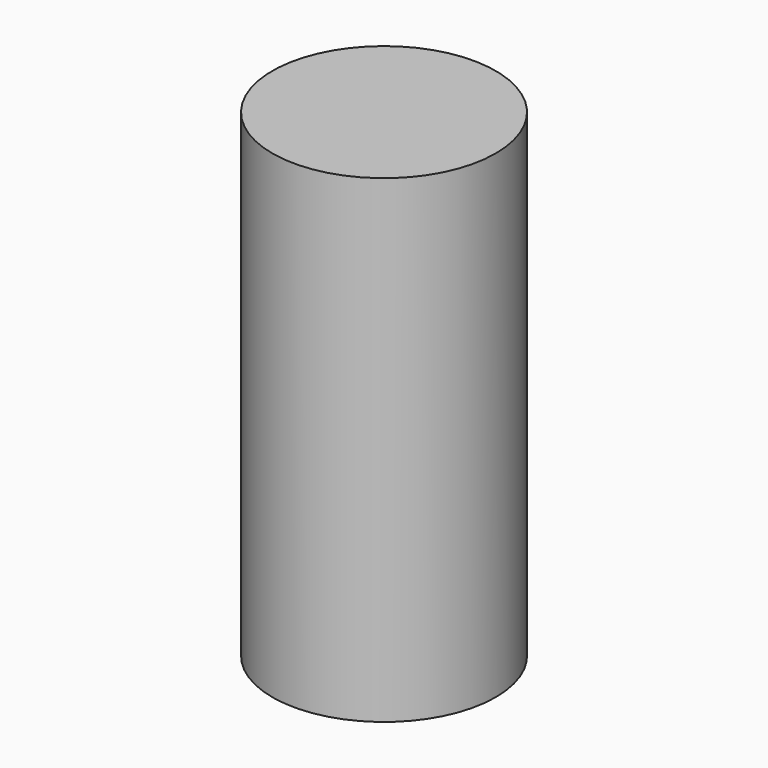
from build123d import *

# Parameters (mm, degrees)
CYLINDER_R     = 7
CYLINDER_DEPTH = 30


with BuildPart() as part:
    # Cylinder → Cylinder (new body)
    with BuildSketch(Plane.XY):
        Circle(CYLINDER_R)
    extrude(amount=CYLINDER_DEPTH)


solid = part.part
